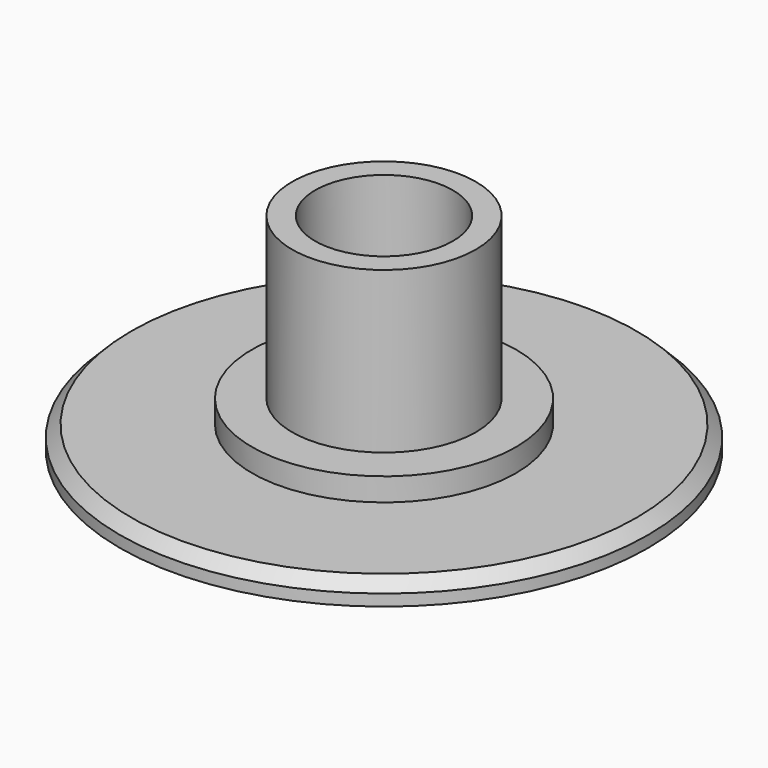
from build123d import *

# Parameters (mm, degrees)
F0_R     = 11.5
F1_DEPTH = 1
F2_R     = 5.75
F3_DEPTH = 1
F4_R     = 4
F5_DEPTH = 7
F6_R     = 3
F7_DEPTH = 7
F8_SIZE  = 0.5


with BuildPart() as f1:
    # F0 (on Top) → F1 (new body)
    with BuildSketch(Plane.XY):
        Circle(F0_R)
    extrude(amount=F1_DEPTH)

    # F2 (on face) → F3 (join)
    with BuildSketch(Plane.XY.offset(1)):
        Circle(F2_R)
    extrude(amount=F3_DEPTH)

    # F4 (on face) → F5 (join)
    with BuildSketch(Plane.XY.offset(2)):
        Circle(F4_R)
    extrude(amount=F5_DEPTH)

    # F6 (on face) → F7 (cut)
    with BuildSketch(Plane.XY.offset(9)):
        Circle(F6_R)
    extrude(amount=-F7_DEPTH, mode=Mode.SUBTRACT)

    # F8
    f8_edges = [f1.edges().sort_by_distance(p)[0] for p in [
        (-11.5, 0, 1),
    ]]
    chamfer(f8_edges, length=F8_SIZE)


solid = f1.part
